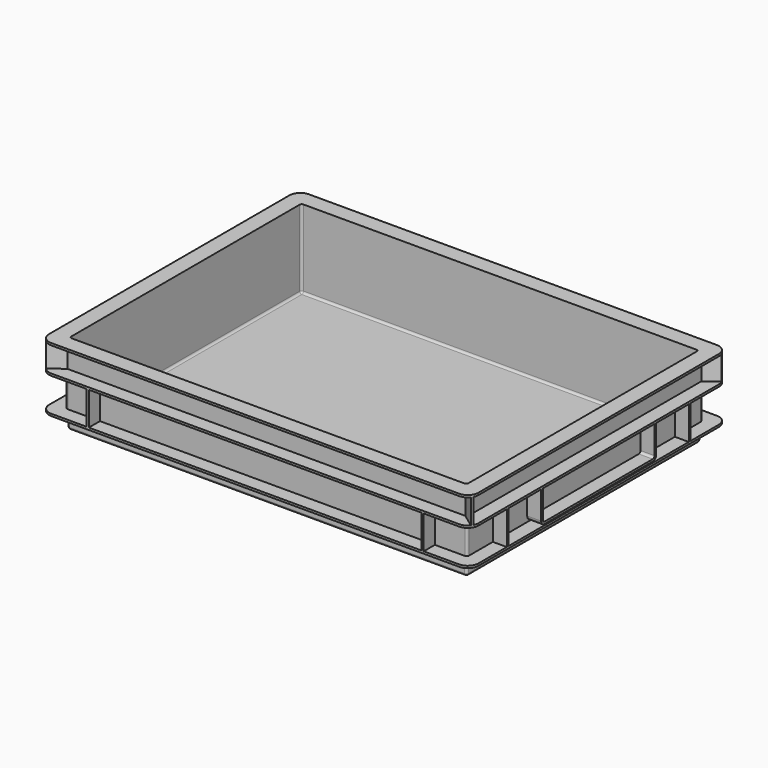
from build123d import *

# Parameters (mm, degrees)
F0_W      = 372
F0_H      = 272
F1_DEPTH  = 15
F2_W      = 372
F2_H      = 272
F3_DEPTH  = 2
F5_DEPTH  = 31
F7_DEPTH  = 2
F9_DEPTH  = 23
F11_DEPTH = 2
F12_W     = 370
F12_H     = 270
F13_DEPTH = 73
F15_DEPTH = 13
F17_DEPTH = 13
F18_R     = 2


with BuildPart() as f1:
    # F0 (on Top) → F1 (new body)
    with BuildSketch(Plane.XY):
        Rectangle(F0_W, F0_H)
    extrude(amount=F1_DEPTH)

    # F2 (on face) → F3 (join)
    with BuildSketch(Plane.XY.offset(15)):
        with BuildLine():
            Line((-190, -150), (190, -150))
            ThreePointArc((190, -150), (197.0710678119, -147.0710678119), (200, -140))
            Line((200, -140), (200, 140))
            ThreePointArc((200, 140), (197.0710678119, 147.0710678119), (190, 150))
            Line((190, 150), (-190, 150))
            ThreePointArc((-190, 150), (-197.0710678119, 147.0710678119), (-200, 140))
            Line((-200, 140), (-200, -140))
            ThreePointArc((-200, -140), (-197.0710678119, -147.0710678119), (-190, -150))
        make_face()
        Rectangle(F2_W, F2_H, mode=Mode.SUBTRACT)
        Rectangle(F2_W, F2_H)
    extrude(amount=F3_DEPTH)

    # F4 (on face) → F5 (join)
    with BuildSketch(Plane.XY.offset(17)):
        Polygon((157, -137), (187, -137), (187, -107), (200, -107), (200, -105), (187, -105), (187, 105), (200, 105), (200, 107), (187, 107), (187, 137), (157, 137), (157, 150), (155, 150), (155, 137), (-155, 137), (-155, 150), (-157, 150), (-157, 137), (-187, 137), (-187, 107), (-200, 107), (-200, 105), (-187, 105), (-187, -105), (-200, -105), (-200, -107), (-187, -107), (-187, -137), (-157, -137), (-157, -150), (-155, -150), (-155, -137), (155, -137), (155, -150), (157, -150), align=None)
    extrude(amount=F5_DEPTH)

    # F6 (on face) → F7 (join)
    with BuildSketch(Plane.XY.offset(48)):
        with BuildLine():
            Line((190, 150), (-190, 150))
            ThreePointArc((-190, 150), (-197.0710678119, 147.0710678119), (-200, 140))
            Line((-200, 140), (-200, -140))
            ThreePointArc((-200, -140), (-197.0710678119, -147.0710678119), (-190, -150))
            Line((-190, -150), (190, -150))
            ThreePointArc((190, -150), (197.0710678119, -147.0710678119), (200, -140))
            Line((200, -140), (200, 140))
            ThreePointArc((200, 140), (197.0710678119, 147.0710678119), (190, 150))
        make_face()
    extrude(amount=F7_DEPTH)

    # F8 (on face) → F9 (join)
    with BuildSketch(Plane.XY.offset(50)):
        with BuildLine():
            Line((-185.3079227659, -137), (185.3079227659, -137))
            Line((185.3079227659, -137), (197.8531877713, -146.1909160735))
            ThreePointArc((197.8531877713, -146.1909160735), (198.4340605379, -145.3727667773), (198.9300207482, -144.5005254622))
            Line((198.9300207482, -144.5005254622), (187, -135.7603498338))
            Line((187, -135.7603498338), (187, 135.7603498338))
            Line((187, 135.7603498338), (198.9300207482, 144.5005254622))
            ThreePointArc((198.9300207482, 144.5005254622), (198.4340605379, 145.3727667773), (197.8531877713, 146.1909160735))
            Line((197.8531877713, 146.1909160735), (185.3079227659, 137))
            Line((185.3079227659, 137), (-185.3079227659, 137))
            Line((-185.3079227659, 137), (-197.8531877713, 146.1909160735))
            ThreePointArc((-197.8531877713, 146.1909160735), (-198.4340605379, 145.3727667773), (-198.9300207482, 144.5005254622))
            Line((-198.9300207482, 144.5005254622), (-187, 135.7603498338))
            Line((-187, 135.7603498338), (-187, -135.7603498338))
            Line((-187, -135.7603498338), (-198.9300207482, -144.5005254622))
            ThreePointArc((-198.9300207482, -144.5005254622), (-198.4340605379, -145.3727667773), (-197.8531877713, -146.1909160735))
            Line((-197.8531877713, -146.1909160735), (-185.3079227659, -137))
        make_face()
    extrude(amount=F9_DEPTH)

    # F10 (on face) → F11 (join)
    with BuildSketch(Plane.XY.offset(73)):
        with BuildLine():
            Line((-190, -150), (190, -150))
            ThreePointArc((190, -150), (197.0710678119, -147.0710678119), (200, -140))
            Line((200, -140), (200, 140))
            ThreePointArc((200, 140), (197.0710678119, 147.0710678119), (190, 150))
            Line((190, 150), (-190, 150))
            ThreePointArc((-190, 150), (-197.0710678119, 147.0710678119), (-200, 140))
            Line((-200, 140), (-200, -140))
            ThreePointArc((-200, -140), (-197.0710678119, -147.0710678119), (-190, -150))
        make_face()
    extrude(amount=F11_DEPTH)

    # F12 (on face) → F13 (cut)
    with BuildSketch(Plane.XY.offset(75)):
        Rectangle(F12_W, F12_H)
    extrude(amount=-F13_DEPTH, mode=Mode.SUBTRACT)

    # F14 (on face) → F15 (join, through all)
    with BuildSketch(Plane(origin=(-187, 0, 0), x_dir=(0, -1, 0), z_dir=(-1, 0, 0))):
        with BuildLine():
            Line((-63, 18), (63, 18))
            ThreePointArc((63, 18), (65.8284271247, 19.1715728753), (67, 22))
            Line((67, 22), (67, 48))
            Line((67, 48), (65, 48))
            Line((65, 48), (65, 22))
            ThreePointArc((65, 22), (64.4142135624, 20.5857864376), (63, 20))
            Line((63, 20), (-63, 20))
            ThreePointArc((-63, 20), (-64.4142135624, 20.5857864376), (-65, 22))
            Line((-65, 22), (-65, 48))
            Line((-65, 48), (-67, 48))
            Line((-67, 48), (-67, 22))
            ThreePointArc((-67, 22), (-65.8284271247, 19.1715728753), (-63, 18))
        make_face()
    extrude(amount=F15_DEPTH)

    # F16 (on face) → F17 (join, through all)
    with BuildSketch(Plane.YZ.offset(187)):
        with BuildLine():
            ThreePointArc((63, 18), (65.8284271247, 19.1715728753), (67, 22))
            Line((67, 22), (67, 48))
            Line((67, 48), (65, 48))
            Line((65, 48), (65, 22))
            ThreePointArc((65, 22), (64.4142135624, 20.5857864376), (63, 20))
            Line((63, 20), (-63, 20))
            ThreePointArc((-63, 20), (-64.4142135624, 20.5857864376), (-65, 22))
            Line((-65, 22), (-65, 48))
            Line((-65, 48), (-67, 48))
            Line((-67, 48), (-67, 22))
            ThreePointArc((-67, 22), (-65.8284271247, 19.1715728753), (-63, 18))
            Line((-63, 18), (63, 18))
        make_face()
    extrude(amount=F17_DEPTH)

    # F18
    f18_edges = [f1.edges().sort_by_distance(p)[0] for p in [
        (-185, -135, 38.5),
        (185, -135, 38.5),
        (185, 135, 38.5),
        (0, 135, 2),
        (185, 0, 2),
        (0, -135, 2),
        (-185, 0, 2),
        (-185, 135, 38.5),
        (187, -137, 32.5),
        (187, 137, 32.5),
        (-187, 137, 32.5),
        (-187, -137, 32.5),
        (186, 0, 0),
        (0, 136, 0),
        (186, 136, 7.5),
        (0, -136, 0),
        (186, -136, 7.5),
        (-186, -136, 7.5),
        (-186, 0, 0),
        (-186, 136, 7.5),
    ]]
    fillet(f18_edges, radius=F18_R)


solid = f1.part
